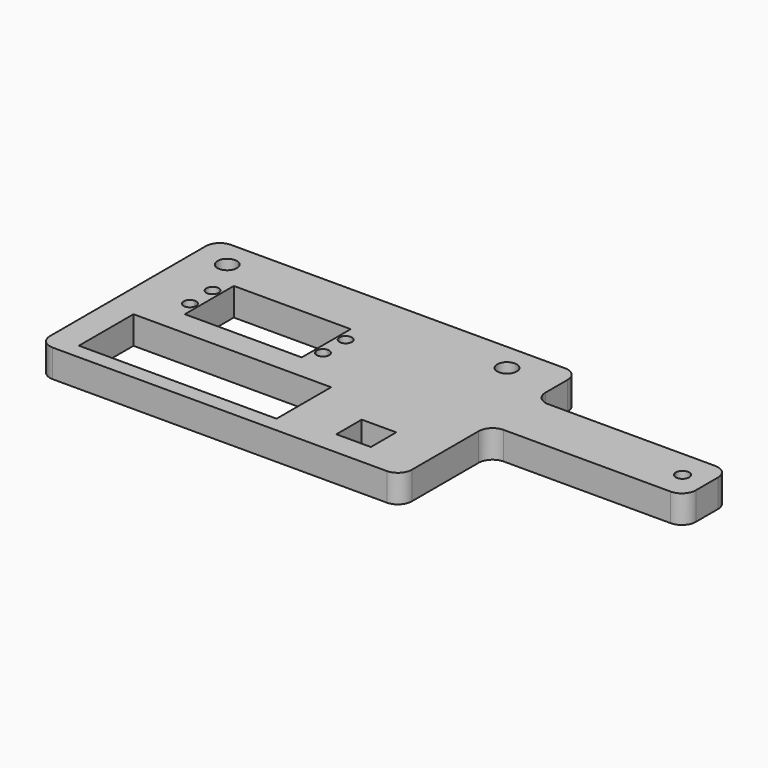
from build123d import *

# Parameters (mm, degrees)
F0_W      = 200
F0_H      = 80
F1_DEPTH  = 10
F2_W      = 42
F2_H      = 22
F3_DEPTH  = 10.001
F5_DEPTH  = 10.001
F6_R      = 3.5
F7_DEPTH  = 10.001
F8_R      = 5
F11_W     = 70
F11_H     = 20
F11_H_2   = 40
F9_W      = 12.4
F9_H      = 11.4
F12_DEPTH = 10.001
F13_R     = 5
F14_W     = 71
F14_H     = 24.5
F15_DEPTH = 10.001


with BuildPart() as f1:
    # F0 (on Top) → F1 (new body)
    with BuildSketch(Plane.XY):
        Rectangle(F0_W, F0_H)
    extrude(amount=F1_DEPTH)

    # F2 (on face) → F3 (cut, through all)
    with BuildSketch(Plane.XY.offset(10)):
        with Locations((-57.7500068545, 10)):
            Rectangle(F2_W, F2_H)
    extrude(amount=-F3_DEPTH, mode=Mode.SUBTRACT)

    # F4 (on face) → F5 (cut, through all)
    with BuildSketch(Plane.XY.offset(10)):
        with BuildLine():
            Line((-81.6500068545, 12.85), (-81.6500068545, 15.1))
            Line((-81.6500068545, 15.1), (-79.4000068545, 15.1))
            ThreePointArc((-79.4000068545, 15.1), (-83.2409971122, 16.6909902577), (-81.6500068545, 12.85))
        make_face()
        with BuildLine():
            Line((-79.4000068545, 15.1), (-81.6500068545, 15.1))
            Line((-81.6500068545, 15.1), (-81.6500068545, 12.85))
            ThreePointArc((-81.6500068545, 12.85), (-80.0590165969, 13.5090097423), (-79.4000068545, 15.1))
        make_face()
        with BuildLine():
            Line((-81.6500068545, 4.9), (-81.6500068545, 7.15))
            ThreePointArc((-81.6500068545, 7.15), (-83.2409971122, 3.3090097423), (-79.4000068545, 4.9))
            Line((-79.4000068545, 4.9), (-81.6500068545, 4.9))
        make_face()
        with BuildLine():
            ThreePointArc((-79.4000068545, 4.9), (-80.0590165969, 6.4909902577), (-81.6500068545, 7.15))
            Line((-81.6500068545, 7.15), (-81.6500068545, 4.9))
            Line((-81.6500068545, 4.9), (-79.4000068545, 4.9))
        make_face()
        with BuildLine():
            Line((-33.8500068545, 15.1), (-36.1000068545, 15.1))
            ThreePointArc((-36.1000068545, 15.1), (-35.4409971122, 13.5090097423), (-33.8500068545, 12.85))
            Line((-33.8500068545, 12.85), (-33.8500068545, 15.1))
        make_face()
        with BuildLine():
            ThreePointArc((-31.6000068545, 15.1), (-33.8500068545, 17.35), (-36.1000068545, 15.1))
            Line((-36.1000068545, 15.1), (-33.8500068545, 15.1))
            Line((-33.8500068545, 15.1), (-33.8500068545, 12.85))
            ThreePointArc((-33.8500068545, 12.85), (-32.2590165969, 13.5090097423), (-31.6000068545, 15.1))
        make_face()
        with BuildLine():
            ThreePointArc((-33.8500068545, 7.15), (-35.4409971122, 6.4909902577), (-36.1000068545, 4.9))
            Line((-36.1000068545, 4.9), (-33.8500068545, 4.9))
            Line((-33.8500068545, 4.9), (-33.8500068545, 7.15))
        make_face()
        with BuildLine():
            Line((-33.8500068545, 4.9), (-36.1000068545, 4.9))
            ThreePointArc((-36.1000068545, 4.9), (-33.8500068545, 2.65), (-31.6000068545, 4.9))
            ThreePointArc((-31.6000068545, 4.9), (-32.2590165969, 6.4909902577), (-33.8500068545, 7.15))
            Line((-33.8500068545, 7.15), (-33.8500068545, 4.9))
        make_face()
    extrude(amount=-F5_DEPTH, mode=Mode.SUBTRACT)

    # F6 (on face) → F7 (cut, through all)
    with BuildSketch(Plane.XY.offset(10)):
        with Locations((-88.3175069503, 30)):
            Circle(F6_R)
        with Locations((12.1812492609, 30)):
            Circle(F6_R)
    extrude(amount=-F7_DEPTH, mode=Mode.SUBTRACT)

    # F8
    f8_edges = [f1.edges().sort_by_distance(p)[0] for p in [
        (-100, 40, 5),
        (-100, -40, 5),
        (100, 40, 5),
        (100, -40, 5),
    ]]
    fillet(f8_edges, radius=F8_R)

    # F11 (on face) + F10 (on face) + F9 (on face) → F12 (cut, through all)
    with BuildSketch(Plane.XY.offset(10)):
        with Locations((65, 30)):
            Rectangle(F11_W, F11_H)
        with Locations((65, -20)):
            Rectangle(F11_W, F11_H_2)
    with BuildSketch(Plane.XY.offset(10)):
        with BuildLine():
            ThreePointArc((93.6749931455, 10), (91.2499931455, 12.425), (88.8249931455, 10))
            Line((88.8249931455, 10), (91.2499931455, 10))
            Line((91.2499931455, 10), (91.2499931455, 7.575))
            ThreePointArc((91.2499931455, 7.575), (92.9647270898, 8.2852660556), (93.6749931455, 10))
        make_face()
        with BuildLine():
            Line((91.2499931455, 10), (88.8249931455, 10))
            ThreePointArc((88.8249931455, 10), (89.5352592011, 8.2852660556), (91.2499931455, 7.575))
            Line((91.2499931455, 7.575), (91.2499931455, 10))
        make_face()
    with BuildSketch(Plane.XY.offset(10)):
        with Locations((6.2, -25.7)):
            Rectangle(F9_W, F9_H)
    extrude(amount=-F12_DEPTH, mode=Mode.SUBTRACT)

    # F13
    f13_edges = [f1.edges().sort_by_distance(p)[0] for p in [
        (30, 40, 5),
        (30, 20, 5),
        (100, 20, 5),
        (30, -40, 5),
        (100, 0, 5),
        (30, 0, 5),
    ]]
    fillet(f13_edges, radius=F13_R)

    # F14 (on face) → F15 (cut, through all)
    with BuildSketch(Plane.XY.offset(10)):
        with Locations((-54.5, -22.25)):
            Rectangle(F14_W, F14_H)
    extrude(amount=-F15_DEPTH, mode=Mode.SUBTRACT)


solid = f1.part
